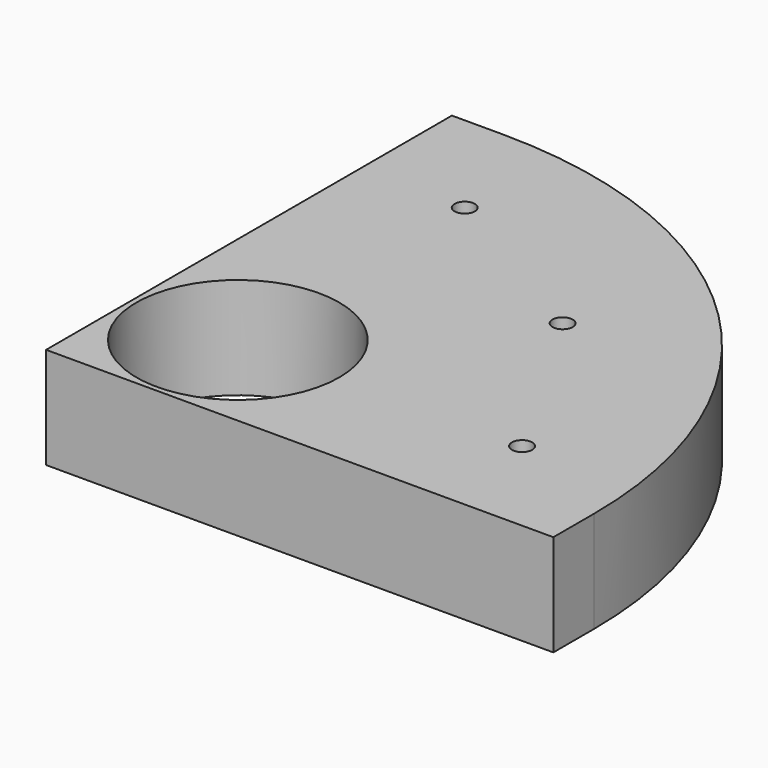
from build123d import *

# Parameters (mm, degrees)
F0_W     = 50
F0_H     = 50
F1_DEPTH = 10
F3_R     = 45
F2_R     = 10
F5_DEPTH = 10.001
F4_R     = 1
F6_DEPTH = 10.001


with BuildPart() as f1:
    # F0 (on Top) → F1 (new body)
    with BuildSketch(Plane.XY):
        with Locations((25, 25)):
            Rectangle(F0_W, F0_H)
    extrude(amount=F1_DEPTH)

    # F3
    f3_edges = [f1.edges().sort_by_distance(p)[0] for p in [
        (50, 50, 5),
    ]]
    fillet(f3_edges, radius=F3_R)

    # F2 (on face) → F5 (cut, through all)
    with BuildSketch(Plane(origin=(0, 0, 0), x_dir=(1, 0, 0), z_dir=(0, 0, -1))):
        with Locations((10.5, -10.5)):
            Circle(F2_R)
    extrude(amount=-F5_DEPTH, mode=Mode.SUBTRACT)

    # F4 (on face) → F6 (cut, through all)
    with BuildSketch(Plane(origin=(0, 0, 0), x_dir=(1, 0, 0), z_dir=(0, 0, -1))):
        with Locations((10.352762, -38.637033)):
            Circle(F4_R)
        with Locations((28.284271, -28.284271)):
            Circle(F4_R)
        with Locations((38.637033, -10.352762)):
            Circle(F4_R)
    extrude(amount=-F6_DEPTH, mode=Mode.SUBTRACT)


solid = f1.part
